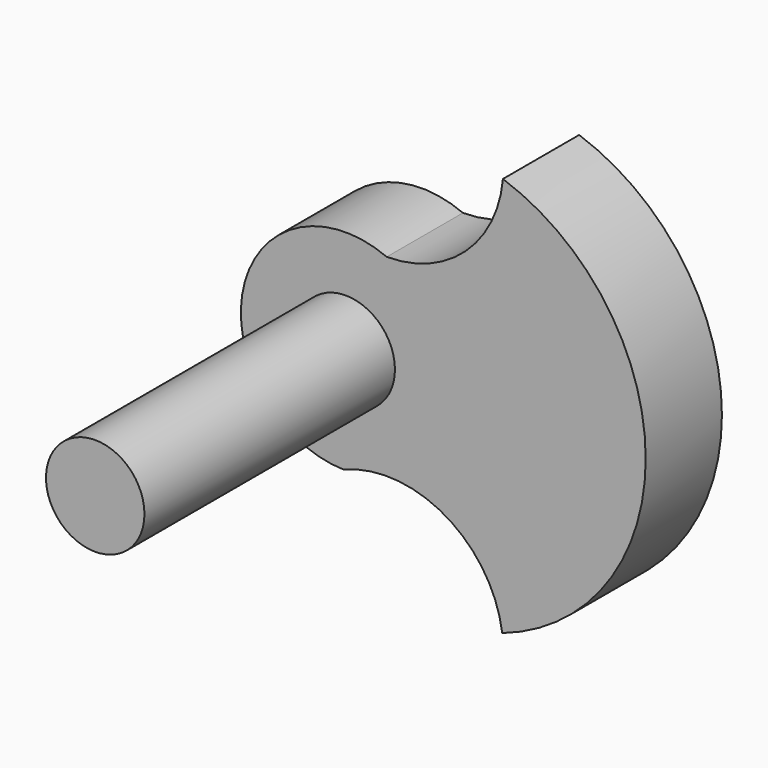
from build123d import *

# Parameters (mm, degrees)
F0_R     = 5.9055
F1_DEPTH = 11.43
F2_DEPTH = 48.9966


with BuildPart() as f1:
    # F0 (on Front) → F1 (new body)
    with BuildSketch(Plane.XZ):
        with BuildLine():
            ThreePointArc((-5.19436, -10.830459), (7.032524, -11.726022), (13.86311, -21.906485))
            ThreePointArc((13.86311, -21.906485), (31.07098, 2.06154), (13.941479, 26.085635))
            ThreePointArc((13.941479, 26.085635), (9.452353, 16.991928), (0, 13.317586))
            ThreePointArc((0, 13.317586), (-17.216361, 4.38822), (-5.19436, -10.830459))
        make_face()
        with Locations((-4.920786, 1.743383)):
            Circle(F0_R, mode=Mode.SUBTRACT)
    extrude(amount=F1_DEPTH)

    # F0 (on Front) → F2 (join)
    with BuildSketch(Plane.XZ):
        with Locations((-4.920786, 1.743383)):
            Circle(F0_R)
    extrude(amount=F2_DEPTH)


solid = f1.part
